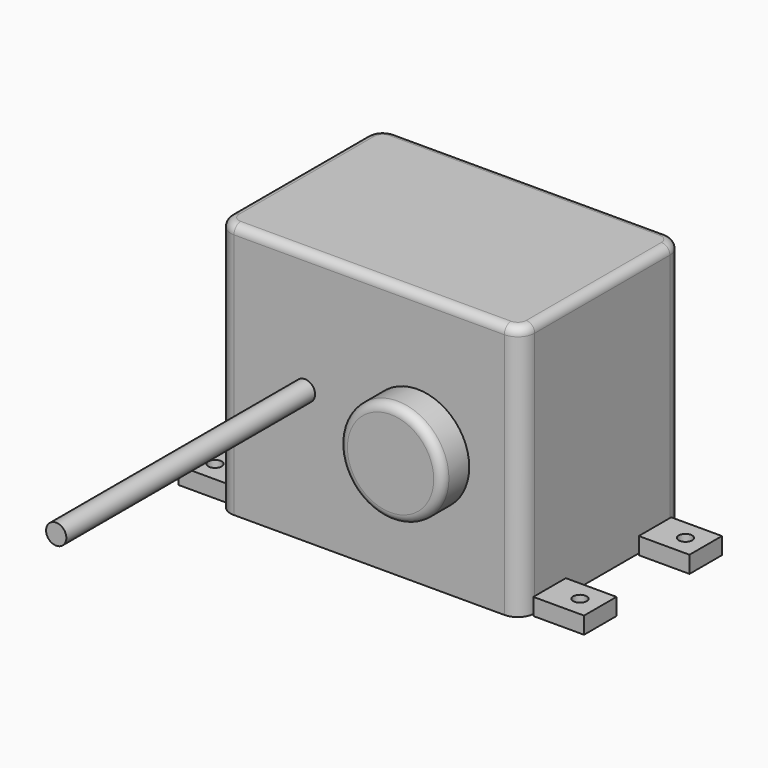
from build123d import *

# Parameters (mm, degrees)
F0_W          = 180
F0_H          = 120
F1_DEPTH      = 151
F2_R          = 10
F3_R          = 5
F5_W          = 30
F5_H          = 24
F5_R          = 4
F6_DEPTH      = 10
F7_R          = 6
F8_DEPTH      = 12.2
F9_DEPTH      = 184
F9_DEPTH_BACK = 200
F10_R         = 30.55
F10_R_2       = 6
F11_DEPTH     = 20
F12_R         = 5


with BuildPart() as f1:
    # F0 (on Top) → F1 (new body)
    with BuildSketch(Plane.XY):
        Rectangle(F0_W, F0_H)
    extrude(amount=F1_DEPTH)

    # F2
    f2_edges = [f1.edges().sort_by_distance(p)[0] for p in [
        (-90, -60, 75.5),
        (90, -60, 75.5),
        (90, 60, 75.5),
        (-90, 60, 75.5),
    ]]
    fillet(f2_edges, radius=F2_R)

    # F3
    f3_edges = [f1.edges().sort_by_distance(p)[0] for p in [
        (0, -60, 151),
    ]]
    fillet(f3_edges, radius=F3_R)

    # F5 (on offset) → F6 (join)
    with BuildSketch(Plane.XY.offset(-1)):
        with Locations((105, 39)):
            Rectangle(F5_W, F5_H)
        with Locations((108, 39)):
            Circle(F5_R, mode=Mode.SUBTRACT)
        with Locations((105, -39)):
            Rectangle(F5_W, F5_H)
        with Locations((108, -39)):
            Circle(F5_R, mode=Mode.SUBTRACT)
        with Locations((-105, -39)):
            Rectangle(F5_W, F5_H)
        with Locations((-108, -39)):
            Circle(F5_R, mode=Mode.SUBTRACT)
        with Locations((-105, 39)):
            Rectangle(F5_W, F5_H)
        with Locations((-108, 39)):
            Circle(F5_R, mode=Mode.SUBTRACT)
    extrude(amount=F6_DEPTH)

    # F7 (on face) → F8 (join)
    with BuildSketch(Plane.XZ.offset(60)):
        with Locations((38.45, 78.5)):
            Circle(F7_R)
    extrude(amount=F8_DEPTH)

    # F7 (on face) → F9 (join, two sides)
    with BuildSketch(Plane.XZ.offset(60)) as f9_sk:
        with Locations((-38, 78.5)):
            Circle(F7_R)
    extrude(amount=F9_DEPTH)
    extrude(f9_sk.sketch, amount=-F9_DEPTH_BACK)

    # F10 (on face) → F11 (join)
    with BuildSketch(Plane.XZ.offset(72.2)):
        with Locations((38.45, 78.5)):
            Circle(F10_R)
        with Locations((38.45, 78.5)):
            Circle(F10_R_2, mode=Mode.SUBTRACT)
        with Locations((38.45, 78.5)):
            Circle(F10_R_2)
    extrude(amount=F11_DEPTH)

    # F12
    f12_edges = [f1.edges().sort_by_distance(p)[0] for p in [
        (7.9, -92.2, 78.5),
    ]]
    fillet(f12_edges, radius=F12_R)


solid = f1.part
